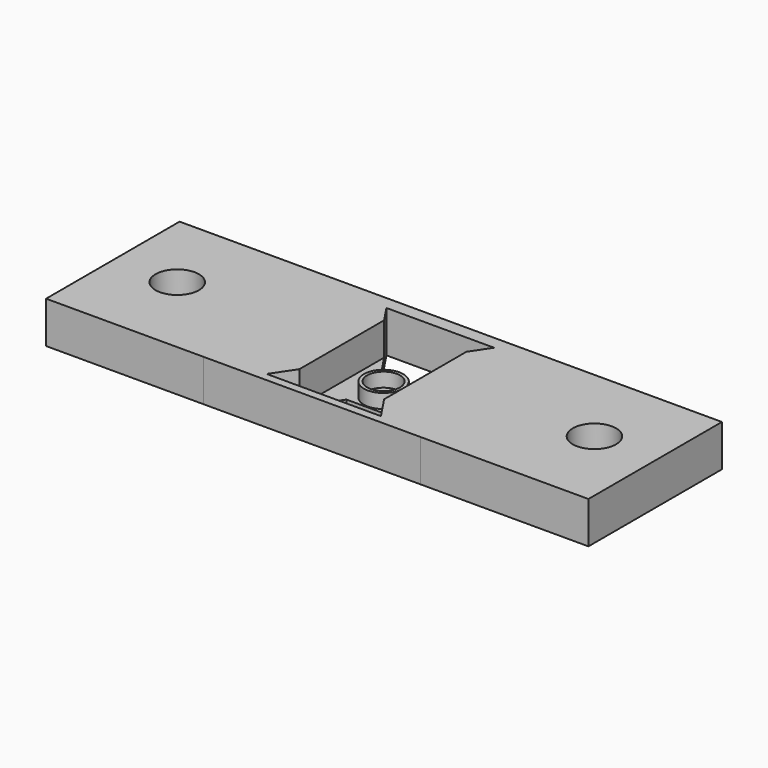
from build123d import *

# Parameters (mm, degrees)
BOX_W             = 33
BOX_H             = 2
BOX_DEPTH         = 6.35
CYLINDER001_R     = 3.302
CYLINDER001_DEPTH = 10
BOX002_W          = 12.7
BOX002_H          = 16.7
BOX002_DEPTH      = 17
CYLINDER_R        = 3.302
CYLINDER_DEPTH    = 10
EXTRUDE_DEPTH     = 6.35
CYLINDER003_R     = 2.5
CYLINDER003_DEPTH = 16
CYLINDER002_R     = 3
CYLINDER002_DEPTH = 3.5
BOX001_W          = 33
BOX001_H          = 1.25
BOX001_DEPTH      = 6.35


with BuildPart() as support1:
    # Box → Box (new body)
    with BuildSketch(Plane(origin=(24, -2.35, 0), x_dir=(1, 0, 0), z_dir=(0, 0, 1))):
        with Locations((16.5, 1)):
            Rectangle(BOX_W, BOX_H)
    extrude(amount=BOX_DEPTH)


with BuildPart() as hole2:
    # Cylinder001 → Cylinder001 (new body)
    with BuildSketch(Plane(origin=(73.025, -12.7, 1e-05), x_dir=(1, 0, 0), z_dir=(0, 0, 1))):
        Circle(CYLINDER001_R)
    extrude(amount=CYLINDER001_DEPTH)


with BuildPart() as thinner:
    # Box002 → Box002 (new body)
    with BuildSketch(Plane(origin=(34.85, -21.35, 1.35), x_dir=(1, 0, 0), z_dir=(0, 0, 1))):
        with Locations((6.35, 8.35)):
            Rectangle(BOX002_W, BOX002_H)
    extrude(amount=BOX002_DEPTH)


with BuildPart() as fusion:
    # Cylinder → Cylinder (new body)
    with BuildSketch(Plane(origin=(9.525, -12.7, 1e-05), x_dir=(1, 0, 0), z_dir=(0, 0, 1))):
        Circle(CYLINDER_R)
    extrude(amount=CYLINDER_DEPTH)

    # Fusion: union Hole2, Thinner
    add(hole2.part)
    add(thinner.part)


with BuildPart() as cut:
    with BuildSketch(Plane(origin=(41.275, -13.050916, 0), x_dir=(0, -1, 0), z_dir=(0, 0, -1))):
        with BuildLine():
            add(Edge.make_bspline(
                [(-12.7, 41.275), (-12.7, 9.525)],
                knots=[0, 0, 112.5, 112.5], degree=1))
            add(Edge.make_bspline(
                [(-12.7, 9.525), (-3.175, 3.175)],
                knots=[0, 0, 40.562452, 40.562452], degree=1))
            add(Edge.make_bspline(
                [(-3.175, 3.175), (-3.175, -3.175)],
                knots=[0, 0, 22.5, 22.5], degree=1))
            add(Edge.make_bspline(
                [(-3.175, -3.175), (-12.7, -9.525)],
                knots=[0, 0, 40.562452, 40.562452], degree=1))
            add(Edge.make_bspline(
                [(-12.7, -9.525), (-12.7, -41.275)],
                knots=[0, 0, 112.5, 112.5], degree=1))
            add(Edge.make_bspline(
                [(-12.7, -41.275), (12.7, -41.275)],
                knots=[0, 0, 90, 90], degree=1))
            add(Edge.make_bspline(
                [(12.7, -41.275), (12.7, -9.525)],
                knots=[0, 0, 112.5, 112.5], degree=1))
            add(Edge.make_bspline(
                [(12.7, -9.525), (3.175, -3.175)],
                knots=[0, 0, 40.562452, 40.562452], degree=1))
            add(Edge.make_bspline(
                [(3.175, -3.175), (3.175, 3.175)],
                knots=[0, 0, 22.5, 22.5], degree=1))
            add(Edge.make_bspline(
                [(3.175, 3.175), (12.7, 9.525)],
                knots=[0, 0, 40.562452, 40.562452], degree=1))
            add(Edge.make_bspline(
                [(12.7, 9.525), (12.7, 41.275)],
                knots=[0, 0, 112.5, 112.5], degree=1))
            add(Edge.make_bspline(
                [(12.7, 41.275), (-12.7, 41.275)],
                knots=[0, 0, 90, 90], degree=1))
        make_face()
    extrude(amount=-EXTRUDE_DEPTH)

    # Cut: cut Fusion
    add(fusion.part, mode=Mode.SUBTRACT)


with BuildPart() as cylinder001:
    # Cylinder003 → Cylinder003 (new body)
    with BuildSketch(Plane(origin=(41.2, -13.04, 0), x_dir=(1, 0, 0), z_dir=(0, 0, 1))):
        Circle(CYLINDER003_R)
    extrude(amount=CYLINDER003_DEPTH)


with BuildPart() as cut001:
    # Cylinder002 → Cylinder002 (new body)
    with BuildSketch(Plane(origin=(41.2, -13.04, 0), x_dir=(1, 0, 0), z_dir=(0, 0, 1))):
        Circle(CYLINDER002_R)
    extrude(amount=CYLINDER002_DEPTH)

    # Cut001: cut Cylinder001
    add(cylinder001.part, mode=Mode.SUBTRACT)


with BuildPart() as fusion001:
    # Box001 → Box001 (new body)
    with BuildSketch(Plane(origin=(24, -25.753, 0), x_dir=(1, 0, 0), z_dir=(0, 0, 1))):
        with Locations((16.5, 0.625)):
            Rectangle(BOX001_W, BOX001_H)
    extrude(amount=BOX001_DEPTH)

    # Fusion001: union Support1, Cut, Cut001
    add(support1.part)
    add(cut.part)
    add(cut001.part)


solid = fusion001.part
